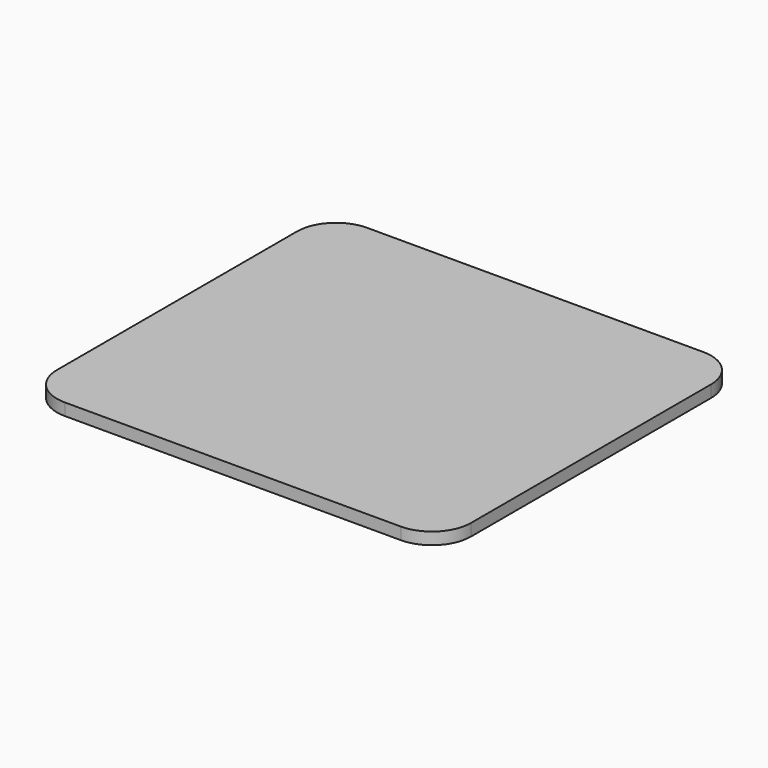
from build123d import *

# Parameters (mm, degrees)
F0_W     = 219.075
F0_H     = 200.025
F1_DEPTH = 6.35
F3_DEPTH = 6.351


with BuildPart() as f1:
    # F0 (on Top) → F1 (new body)
    with BuildSketch(Plane.XY):
        with Locations((-19.571357, 26.421812)):
            Rectangle(F0_W, F0_H)
    extrude(amount=F1_DEPTH)

    # F2 (on face) → F3 (cut, through all)
    with BuildSketch(Plane.XY.offset(6.35)):
        with BuildLine():
            Line((89.966143, 126.434312), (69.315943, 126.434312))
            ThreePointArc((69.315943, 126.434312), (83.91784, 120.386009), (89.966143, 105.784112))
            Line((89.966143, 105.784112), (89.966143, 126.434312))
        make_face()
        with BuildLine():
            Line((-129.108857, 126.434312), (-129.108857, 105.796812))
            ThreePointArc((-129.108857, 105.796812), (-123.056064, 120.390499), (-108.458657, 126.434312))
            Line((-108.458657, 126.434312), (-129.108857, 126.434312))
        make_face()
        with BuildLine():
            ThreePointArc((-108.458657, -73.590688), (-123.056064, -67.546874), (-129.108857, -52.953188))
            Line((-129.108857, -52.953188), (-129.108857, -73.590688))
            Line((-129.108857, -73.590688), (-108.458657, -73.590688))
        make_face()
        with BuildLine():
            ThreePointArc((89.966143, -52.940488), (83.91784, -67.542384), (69.315943, -73.590688))
            Line((69.315943, -73.590688), (89.966143, -73.590688))
            Line((89.966143, -73.590688), (89.966143, -52.940488))
        make_face()
    extrude(amount=-F3_DEPTH, mode=Mode.SUBTRACT)


solid = f1.part
